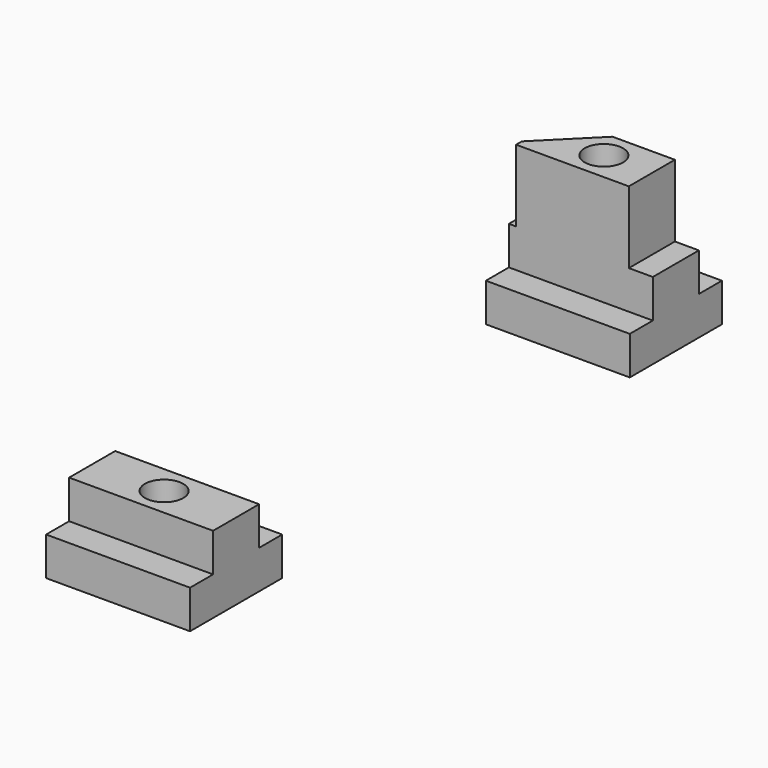
from build123d import *

# Parameters (mm, degrees)
F0_W     = 6
F0_H     = 8
F0_W_2   = 12
F1_DEPTH = 30
F3_START = -9
F2_R     = 4
F3_DEPTH = 8
F4_DEPTH = 40
F5_DEPTH = 15
F6_W     = 5
F6_H     = 12
F7_DEPTH = 15


with BuildPart() as f1:
    # F0 (on Right) → F1 (new body)
    with BuildSketch(Plane.YZ):
        with Locations((33.75, 7.591459943)):
            Rectangle(F0_W, F0_H)
        with Locations((42.75, 7.591459943)):
            Rectangle(F0_W_2, F0_H)
        with Locations((42.75, 15.591459943)):
            Rectangle(F0_W_2, F0_H)
        with Locations((51.75, 7.591459943)):
            Rectangle(F0_W, F0_H)
    extrude(amount=F1_DEPTH)


with BuildPart() as f1b:
    # F0 (on Right) → F1, piece 2 (new body)
    with BuildSketch(Plane.YZ):
        with Locations((157.3070744276, 7.591459943)):
            Rectangle(F0_W_2, F0_H)
        with Locations((148.3070744276, 7.591459943)):
            Rectangle(F0_W, F0_H)
        with Locations((157.3070744276, 15.591459943)):
            Rectangle(F0_W_2, F0_H)
        with Locations((166.3070744276, 7.591459943)):
            Rectangle(F0_W, F0_H)
    extrude(amount=F1_DEPTH)


with BuildPart() as f3_tool:
    # F2 (on face) → F3 (new body)
    with BuildSketch(Plane.XY.offset(19.591459943).offset(F3_START)):
        Polygon((18.4641016151, 48.75), (11.5358983849, 48.75), (8.0717967697, 42.75), (11.5358983849, 36.75), (18.4641016151, 36.75), (21.9282032303, 42.75), align=None)
        with Locations((15, 42.75)):
            Circle(F2_R, mode=Mode.SUBTRACT)
        Polygon((21.9282032303, 157.3070744276), (18.4641016151, 163.3070744276), (11.5358983849, 163.3070744276), (8.0717967697, 157.3070744276), (11.5358983849, 151.3070744276), (18.4641016151, 151.3070744276), align=None)
        with Locations((15, 157.3070744276)):
            Circle(F2_R, mode=Mode.SUBTRACT)
    extrude(amount=-F3_DEPTH)


with BuildPart() as f1_1:
    add(f1.part)

    # F3: cut by f3_tool
    add(f3_tool.part, mode=Mode.SUBTRACT)


with BuildPart() as f1b_1:
    add(f1b.part)

    # F3: cut by f3_tool
    add(f3_tool.part, mode=Mode.SUBTRACT)


with BuildPart() as f4_tool:
    # F2 (on face) → F4 (new body)
    with BuildSketch(Plane.XY.offset(19.591459943)):
        with Locations((15, 42.75)):
            Circle(F2_R)
        with Locations((15, 157.3070744276)):
            Circle(F2_R)
    extrude(amount=-F4_DEPTH)


with BuildPart() as f1_2:
    add(f1_1.part)

    # F4: cut by f4_tool
    add(f4_tool.part, mode=Mode.SUBTRACT)


with BuildPart() as f1b_2:
    add(f1b_1.part)

    # F4: cut by f4_tool
    add(f4_tool.part, mode=Mode.SUBTRACT)

    # F5 (add): a face of the model
    f5_faces = [f1b_2.faces().sort_by_distance(p)[0] for p in [
        (15, 162.9839645392, 19.591459943),
    ]]
    extrude(f5_faces, amount=F5_DEPTH)

    # F6 (on face) → F7 (cut)
    with BuildSketch(Plane.XY.offset(34.591459943)):
        Polygon((0, 163.3070744276), (0, 151.3070744276), (1.5, 152.8070744276), (12, 163.3070744276), align=None)
        with Locations((27.5, 157.3070744276)):
            Rectangle(F6_W, F6_H)
        Polygon((1.5, 152.8070744276), (0, 151.3070744276), (1.5, 151.3070744276), align=None)
    extrude(amount=-F7_DEPTH, mode=Mode.SUBTRACT)


solid = Compound([f1_2.part, f1b_2.part])
